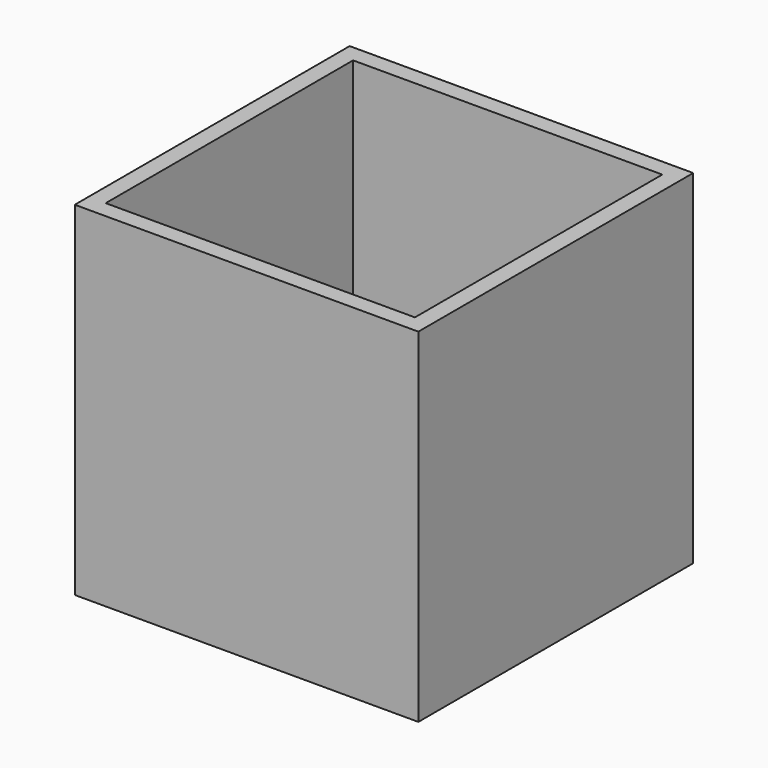
from build123d import *

# Parameters (mm, degrees)
BOX001_W     = 9
BOX001_H     = 9
BOX001_DEPTH = 10
BOX_W        = 10
BOX_H        = 10
BOX_DEPTH    = 10


with BuildPart() as cube001:
    # Box001 → Box001 (new body)
    with BuildSketch(Plane(origin=(0.5, 0.5, 0), x_dir=(1, 0, 0), z_dir=(0, 0, 1))):
        with Locations((4.5, 4.5)):
            Rectangle(BOX001_W, BOX001_H)
    extrude(amount=BOX001_DEPTH)


with BuildPart() as cut:
    # Box → Box (new body)
    with BuildSketch(Plane.XY):
        with Locations((5, 5)):
            Rectangle(BOX_W, BOX_H)
    extrude(amount=BOX_DEPTH)

    # Cut: cut Cube001
    add(cube001.part, mode=Mode.SUBTRACT)


solid = cut.part
